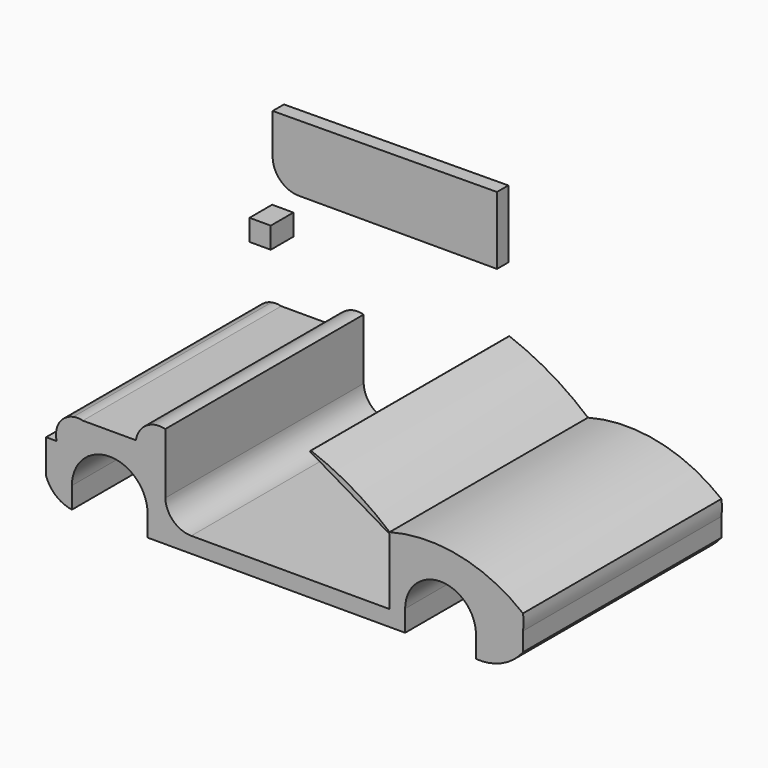
from build123d import *

# Parameters (mm, degrees)
F1_DEPTH = 88.9
F3_DEPTH = 5.08
F4_R     = 12.7
F5_DEPTH = 6.35
F6_W     = 7.62
F6_H     = 7.62
F7_DEPTH = 10.16


with BuildPart() as f1:
    # F0 (on Front) → F1 (new body)
    with BuildSketch(Plane.XZ):
        with BuildLine():
            ThreePointArc((-82.37978, -12.250033), (-78.813533, -17.356135), (-73.115226, -19.870033))
            Line((-73.115226, -19.870033), (-73.115226, -12.250033))
            ThreePointArc((-73.115226, -12.250033), (-59.553572, 1.31162), (-45.991919, -12.250033))
            Line((-45.991919, -12.250033), (-45.991919, -19.870033))
            Line((-45.991919, -19.870033), (46.363413, -19.870033))
            Line((46.363413, -19.870033), (46.363413, -12.250033))
            ThreePointArc((46.363413, -12.250033), (59.063413, 0.449967), (71.763413, -12.250033))
            Line((71.763413, -12.250033), (71.763413, -19.870033))
            ThreePointArc((71.763413, -19.870033), (81.14185, -18.161995), (88.619895, -12.250033))
            Line((88.619895, -12.250033), (88.619895, -5.570058))
            Line((88.619895, -5.570058), (88.619895, 0))
            ThreePointArc((88.619895, 0), (65.913754, 10.749941), (40.7998, 10.102283))
            Line((40.7998, 10.102283), (40.7998, 9.51627))
            Line((40.7998, 9.51627), (40.7998, -14.202342))
            Line((40.7998, -14.202342), (-30.3202, -14.202342))
            ThreePointArc((-30.3202, -14.202342), (-36.766504, -11.614961), (-39.635142, -5.288801))
            Line((-39.635142, -5.288801), (-39.635142, 9.51627))
            Line((-39.635142, 9.51627), (-50.168831, 9.51627))
            Line((-50.168831, 9.51627), (-69.20395, 9.51627))
            Line((-69.20395, 9.51627), (-71.472034, 9.51627))
            ThreePointArc((-71.472034, 9.51627), (-72.036763, 9.57663), (-72.604074, 9.603507))
            ThreePointArc((-72.604074, 9.603507), (-77.669849, 6.096007), (-78.566145, 0))
            Line((-78.566145, 0), (-82.37978, 0))
            Line((-82.37978, 0), (-82.37978, -12.250033))
        make_face()
        with BuildLine():
            ThreePointArc((-69.20395, 9.51627), (-70.899158, 9.749071), (-72.604074, 9.603507))
            ThreePointArc((-72.604074, 9.603507), (-72.036763, 9.57663), (-71.472034, 9.51627))
            Line((-71.472034, 9.51627), (-69.20395, 9.51627))
        make_face()
        with BuildLine():
            ThreePointArc((-39.635142, 16.478934), (-46.45556, 15.347976), (-50.168831, 9.51627))
            Line((-50.168831, 9.51627), (-39.635142, 9.51627))
            Line((-39.635142, 9.51627), (-39.635142, 16.478934))
        make_face()
        with BuildLine():
            Line((88.619895, 0), (88.619895, -5.570058))
            ThreePointArc((88.619895, -5.570058), (88.848418, -2.785029), (88.619895, 0))
        make_face()
        with BuildLine():
            Line((40.7998, 9.51627), (40.7998, 10.102283))
            ThreePointArc((40.7998, 10.102283), (27.42958, 19.633614), (12.586275, 26.653968))
            Line((12.586275, 26.653968), (12.153219, 26.322011))
            Line((12.153219, 26.322011), (40.7998, 9.51627))
        make_face()
    extrude(amount=F1_DEPTH)


with BuildPart() as f3:
    # F2 (on Front) → F3 (new body)
    with BuildSketch(Plane.XZ):
        with BuildLine():
            Line((12.233235, 74.103309), (-68.201707, 73.517296))
            Line((-68.201707, 73.517296), (-68.201707, 58.712226))
            ThreePointArc((-68.201707, 58.712226), (-65.333069, 52.386065), (-58.886765, 49.798684))
            Line((-58.886765, 49.798684), (12.233235, 49.798684))
            Line((12.233235, 49.798684), (12.233235, 74.103309))
        make_face()
    extrude(amount=F3_DEPTH)


with BuildPart() as f5:
    # F4 (on Front) → F5 (new body)
    with BuildSketch(Plane.XZ):
        with Locations((-59.1508, -45.148499)):
            Circle(F4_R)
    extrude(amount=F5_DEPTH)


with BuildPart() as f7:
    # F6 (on Front) → F7 (new body)
    with BuildSketch(Plane.XZ):
        with Locations((-68.627257, 36.671251)):
            Rectangle(F6_W, F6_H)
    extrude(amount=F7_DEPTH)


solid = Compound([f1.part, f3.part, f5.part, f7.part])
